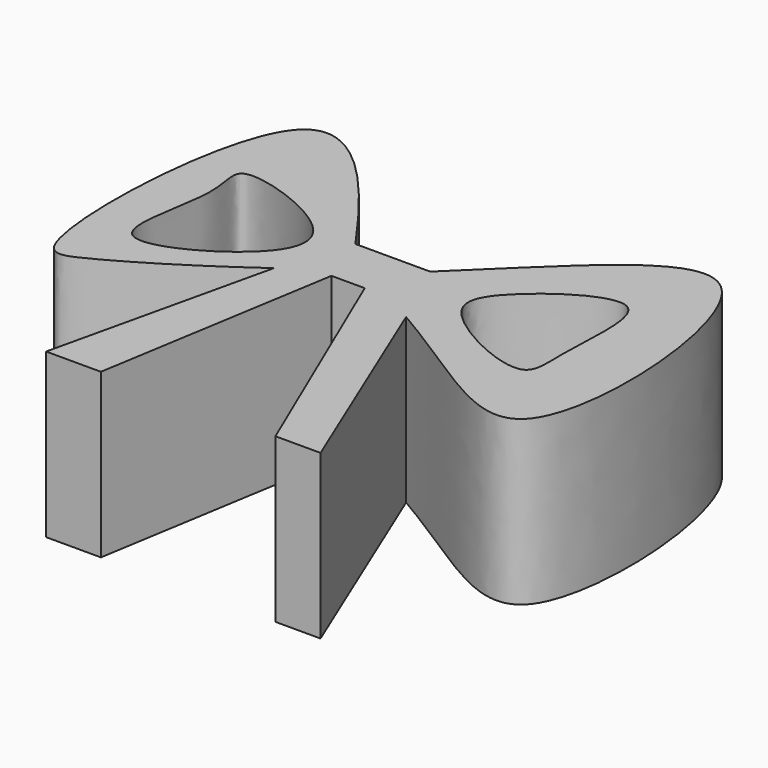
from build123d import *

# Parameters (mm, degrees)
F1_DEPTH = 25.4


with BuildPart() as f1:
    # F0 (on Top) → F1 (new body)
    with BuildSketch(Plane.XY):
        with BuildLine():
            Line((-2.9581205236, -2.0191706615), (-2.9581205236, 6.338345402))
            add(Edge.make_bspline(
                [(-2.9581205236, 6.338345402), (-12.0986659968, 19.2984889686), (-32.5905697542, 44.6602055525), (-34.8641885967, -20.6348572647), (-25.2977244286, -16.9634962979), (-14.417367639, -10.3495882245), (-6.7130328958, -4.7940652445)],
                knots=[0, 0, 0, 0, 0.2835960384, 0.6166415118, 0.730767737, 0.9625697241, 0.9625697241, 0.9625697241, 0.9625697241], degree=3))
            add(Edge.make_bspline(
                [(-6.7130328958, -4.7940652445), (-5.4689737815, -3.8969859731), (-4.2141316776, -2.970608914), (-2.9581205236, -2.0191706615)],
                knots=[0.9625697241, 0.9625697241, 0.9625697241, 0.9625697241, 1, 1, 1, 1], degree=3))
        make_face()
        with BuildLine():
            add(Edge.make_bspline(
                [(-24.9936003238, 12.3444003984), (-26.4793332005, 11.7319685698), (-23.5015465077, 6.0944355289), (-30.8759872237, -14.7245595864), (-9.0739261199, -3.5563915999), (-5.7295309332, 7.5943501316), (-22.5362271262, 13.357350697), (-24.9936003238, 12.3444003984)],
                knots=[0, 0, 0, 0, 0.1420028425, 0.3641568526, 0.5929866655, 0.7651300683, 1, 1, 1, 1], degree=3))
        make_face(mode=Mode.SUBTRACT)
        with BuildLine():
            add(Edge.make_bspline(
                [(8.6637696077, 6.338345402), (21.461918375, 18.4554115112), (43.9945923097, 44.9161242647), (49.5829548416, -33.2213258299), (27.2724278193, -12.5341174591), (13.8232555906, -4.7940652445)],
                knots=[0, 0, 0, 0, 0.3230949347, 0.6728943001, 0.9638696859, 0.9638696859, 0.9638696859, 0.9638696859], degree=3))
            Line((8.6637696077, 6.338345402), (8.6637696077, 2.1595873702))
            Line((8.6637696077, 2.1595873702), (8.6637696077, 0))
            Line((8.6637696077, 0), (8.6637696077, -2.0191706615))
            add(Edge.make_bspline(
                [(13.8232555906, -4.7940652445), (12.1532764748, -3.8329856082), (10.4321404472, -2.8974074429), (8.6637696077, -2.0191706615)],
                knots=[0.9638696859, 0.9638696859, 0.9638696859, 0.9638696859, 1, 1, 1, 1], degree=3))
        make_face()
        with BuildLine():
            add(Edge.make_bspline(
                [(19.2023999989, 6.8580000661), (22.5026610651, 10.6829434203), (36.938330071, 20.4827682141), (34.046109161, 0.0657442607), (35.9108058501, -10.3549355623), (16.0083963591, -0.8117573707), (17.0060123562, 4.3124262013), (19.2023999989, 6.8580000661)],
                knots=[0, 0, 0, 0, 0.2316890644, 0.4538357119, 0.6095918787, 0.8458064414, 1, 1, 1, 1], degree=3))
        make_face(mode=Mode.SUBTRACT)
        Polygon((8.6637696077, 6.338345402), (-2.9581205236, 6.338345402), (-2.9581205236, -2.0191706615), (0, -2.0191706615), (5.1816008054, -2.0191706615), (8.6637696077, -2.0191706615), (8.6637696077, 0), (8.6637696077, 2.1595873702), align=None)
        with BuildLine():
            Line((28.0415993184, -39.1884254924), (13.8232555906, -4.7940652445))
            add(Edge.make_bspline(
                [(13.8232555906, -4.7940652445), (12.1532764748, -3.8329856082), (10.4321404472, -2.8974074429), (8.6637696077, -2.0191706615)],
                knots=[0.9638696859, 0.9638696859, 0.9638696859, 0.9638696859, 1, 1, 1, 1], degree=3))
            Line((8.6637696077, -2.0191706615), (5.1816008054, -2.0191706615))
            Line((5.1816008054, -2.0191706615), (21.0312008858, -39.1884254924))
            Line((21.0312008858, -39.1884254924), (28.0415993184, -39.1884254924))
        make_face()
        with BuildLine():
            Line((0, -2.0191706615), (-2.9581205236, -2.0191706615))
            add(Edge.make_bspline(
                [(-6.7130328958, -4.7940652445), (-5.4689737815, -3.8969859731), (-4.2141316776, -2.970608914), (-2.9581205236, -2.0191706615)],
                knots=[0.9625697241, 0.9625697241, 0.9625697241, 0.9625697241, 1, 1, 1, 1], degree=3))
            Line((-6.7130328958, -4.7940652445), (-14.6148071262, -39.1884254924))
            Line((-14.6148071262, -39.1884254924), (-6.0959998518, -39.1884254924))
            Line((-6.0959998518, -39.1884254924), (0, -2.0191706615))
        make_face()
    extrude(amount=F1_DEPTH)


solid = f1.part
